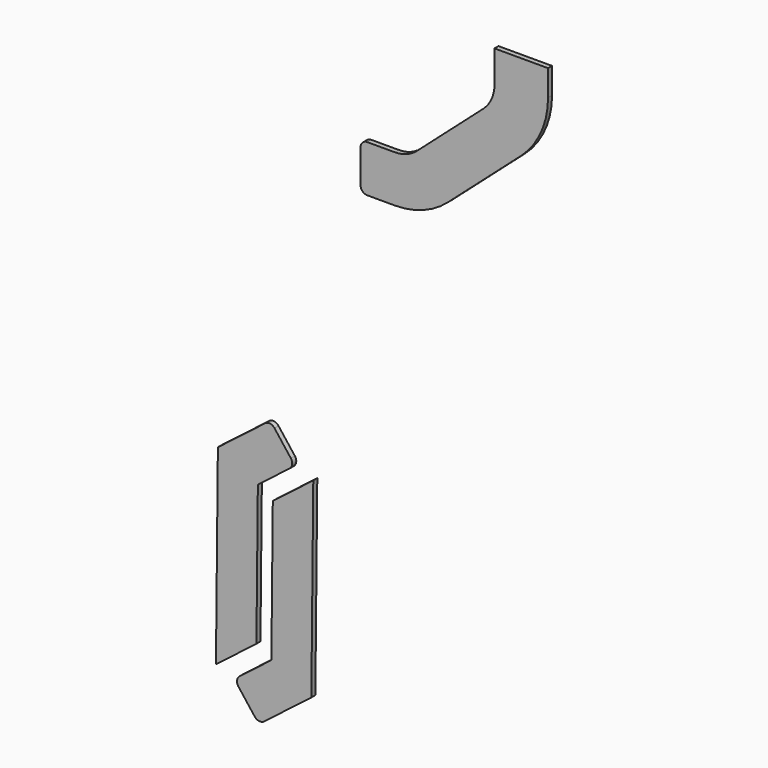
from build123d import *

# Parameters (mm, degrees)
F1_DEPTH = 4.7625


with BuildPart() as f1:
    # F0 (on Front) → F1 (new body)
    with BuildSketch(Plane.XZ):
        with BuildLine():
            ThreePointArc((0, 6.35), (1.859872, 1.859872), (6.35, 0))
            Line((6.35, 0), (32.42212, 0))
            ThreePointArc((32.42212, 0), (59.416901, 4.941865), (82.91025, 19.126462))
            Line((82.91025, 19.126462), (152.08813, 80.322279))
            ThreePointArc((152.08813, 80.322279), (171.075303, 106.096899), (177.8, 137.395817))
            Line((177.8, 137.395817), (177.8, 161.925))
            Line((177.8, 161.925), (127, 161.925))
            Line((127, 161.925), (127, 131.778509))
            ThreePointArc((127, 131.778509), (124.198043, 118.737293), (116.286721, 107.997868))
            Line((116.286721, 107.997868), (53.458841, 52.419359))
            ThreePointArc((53.458841, 52.419359), (43.669945, 46.50911), (32.42212, 44.45))
            Line((32.42212, 44.45), (6.35, 44.45))
            ThreePointArc((6.35, 44.45), (1.859872, 42.590128), (0, 38.1))
            Line((0, 38.1), (0, 6.35))
        make_face()
        with BuildLine():
            Line((-84.615987, -417.669485), (-114.775093, -440.951202))
            ThreePointArc((-114.775093, -440.951202), (-117.192868, -445.167211), (-115.921325, -449.858006))
            Line((-115.921325, -449.858006), (-100.40018, -469.964076))
            ThreePointArc((-100.40018, -469.964076), (-96.184171, -472.381851), (-91.493377, -471.110308))
            Line((-91.493377, -471.110308), (-46.704955, -436.5353))
            Line((-46.704955, -436.5353), (-44.864623, -254.681423))
            Line((-44.864623, -254.681423), (-83.266575, -284.326313))
            Line((-83.266575, -284.326313), (-84.615987, -417.669485))
        make_face()
        with BuildLine():
            Line((-66.140136, -243.094653), (-81.661281, -222.988582))
            ThreePointArc((-81.661281, -222.988582), (-85.87729, -220.570807), (-90.568085, -221.84235))
            Line((-90.568085, -221.84235), (-135.356506, -256.417358))
            Line((-135.356506, -256.417358), (-137.196839, -438.271235))
            Line((-137.196839, -438.271235), (-98.794886, -408.626345))
            Line((-98.794886, -408.626345), (-97.445474, -275.283173))
            Line((-97.445474, -275.283173), (-67.286368, -252.001456))
            ThreePointArc((-67.286368, -252.001456), (-64.868593, -247.785447), (-66.140136, -243.094653))
        make_face()
    extrude(amount=F1_DEPTH)


solid = f1.part
